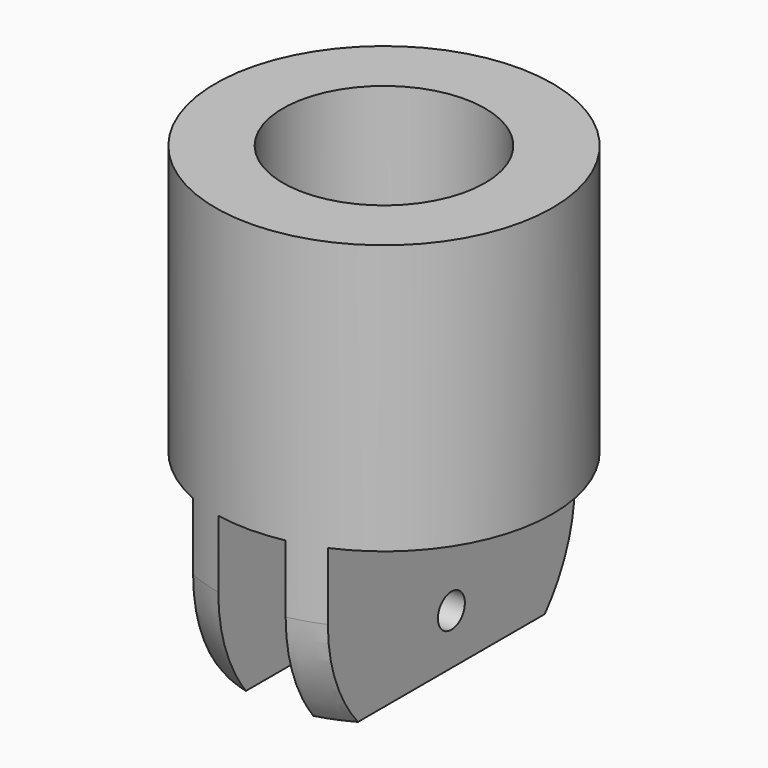
from build123d import *

# Parameters (mm, degrees)
CYLINDER026_R          = 0.5
CYLINDER026_DEPTH      = 10
CYLINDER023_R          = 2
CYLINDER023_DEPTH      = 4
CYLINDER027_R          = 3
CYLINDER027_DEPTH      = 10
BOX010_W               = 10
BOX010_H               = 10
BOX010_DEPTH           = 10
BOX008_W               = 2
BOX008_H               = 10
BOX008_DEPTH           = 10
BOX009_W               = 10
BOX009_H               = 10
BOX009_DEPTH           = 10
CYLINDER025_R          = 5
CYLINDER025_DEPTH      = 10
CYLINDER024_R          = 5
CYLINDER024_DEPTH      = 10
CUT021_PLACEMENT_ANGLE = 180


with BuildPart() as cylinder026:
    # Cylinder026 → Cylinder026 (new body)
    with BuildSketch(Plane(origin=(-5, 0, -7), x_dir=(0, 0, -1), z_dir=(1, 0, 0))):
        Circle(CYLINDER026_R)
    extrude(amount=CYLINDER026_DEPTH)


with BuildPart() as cylinder023:
    # Cylinder023 → Cylinder023 (new body)
    with BuildSketch(Plane(origin=(-2, -50, 1), x_dir=(0, 0, -1), z_dir=(1, 0, 0))):
        Circle(CYLINDER023_R)
    extrude(amount=CYLINDER023_DEPTH)


with BuildPart() as cylinder027:
    # Cylinder027 → Cylinder027 (new body)
    with BuildSketch(Plane(origin=(0, -50, -12), x_dir=(1, 0, 0), z_dir=(0, 0, 1))):
        Circle(CYLINDER027_R)
    extrude(amount=CYLINDER027_DEPTH)


with BuildPart() as cube010:
    # Box010 → Box010 (new body)
    with BuildSketch(Plane(origin=(-12, -55, -2), x_dir=(1, 0, 0), z_dir=(0, 0, 1))):
        with Locations((5, 5)):
            Rectangle(BOX010_W, BOX010_H)
    extrude(amount=BOX010_DEPTH)


with BuildPart() as cube008:
    # Box008 → Box008 (new body)
    with BuildSketch(Plane(origin=(-1, -55, -2), x_dir=(1, 0, 0), z_dir=(0, 0, 1))):
        with Locations((1, 5)):
            Rectangle(BOX008_W, BOX008_H)
    extrude(amount=BOX008_DEPTH)


with BuildPart() as cube009:
    # Box009 → Box009 (new body)
    with BuildSketch(Plane(origin=(2, -55, -2), x_dir=(1, 0, 0), z_dir=(0, 0, 1))):
        with Locations((5, 5)):
            Rectangle(BOX009_W, BOX009_H)
    extrude(amount=BOX009_DEPTH)


with BuildPart() as cylinder025:
    # Cylinder025 → Cylinder025 (new body)
    with BuildSketch(Plane(origin=(0, -50, -10), x_dir=(1, 0, 0), z_dir=(0, 0, 1))):
        Circle(CYLINDER025_R)
    extrude(amount=CYLINDER025_DEPTH)


with BuildPart() as sphere006:
    # Sphere006 → Sphere006 (revolve)
    with BuildSketch(Plane.XZ.offset(50)):
        with BuildLine():
            ThreePointArc((5, 0), (3.535534, 3.535534), (0, 5))
            Line((0, 5), (0, 0))
            Line((0, 0), (5, 0))
        make_face()
    revolve(axis=Axis((0, -50, 0), (0, 0, 1)))


with BuildPart() as cut021:
    # Cylinder024 → Cylinder024 (new body)
    with BuildSketch(Plane(origin=(0, -50, -7), x_dir=(1, 0, 0), z_dir=(0, 0, 1))):
        Circle(CYLINDER024_R)
    extrude(amount=CYLINDER024_DEPTH)

    # Common004: intersect Sphere006
    add(sphere006.part, mode=Mode.INTERSECT)

    # Fusion005006: union Cylinder025
    add(cylinder025.part)

    # Cut020: cut Cube009
    add(cube009.part, mode=Mode.SUBTRACT)

    # Cut022: cut Cube008
    add(cube008.part, mode=Mode.SUBTRACT)

    # Cut023: cut Cube010
    add(cube010.part, mode=Mode.SUBTRACT)

    # Cut019: cut Cylinder027
    add(cylinder027.part, mode=Mode.SUBTRACT)

    # Fusion005005: union Cylinder023
    add(cylinder023.part)


with BuildPart() as cut021_1:
    # Fusion005007 placement: moved
    add(cut021.part.moved(Location((0, 50, -8.5))))

    # Cut021: cut Cylinder026
    add(cylinder026.part, mode=Mode.SUBTRACT)


with BuildPart() as cut021_2:
    # Cut021 placement: moved
    add(cut021_1.part.moved(Location((0, 0, -18.5))).rotate(Axis((0, 0, -18.5), (1, 0, 0)), CUT021_PLACEMENT_ANGLE))


solid = cut021_2.part
